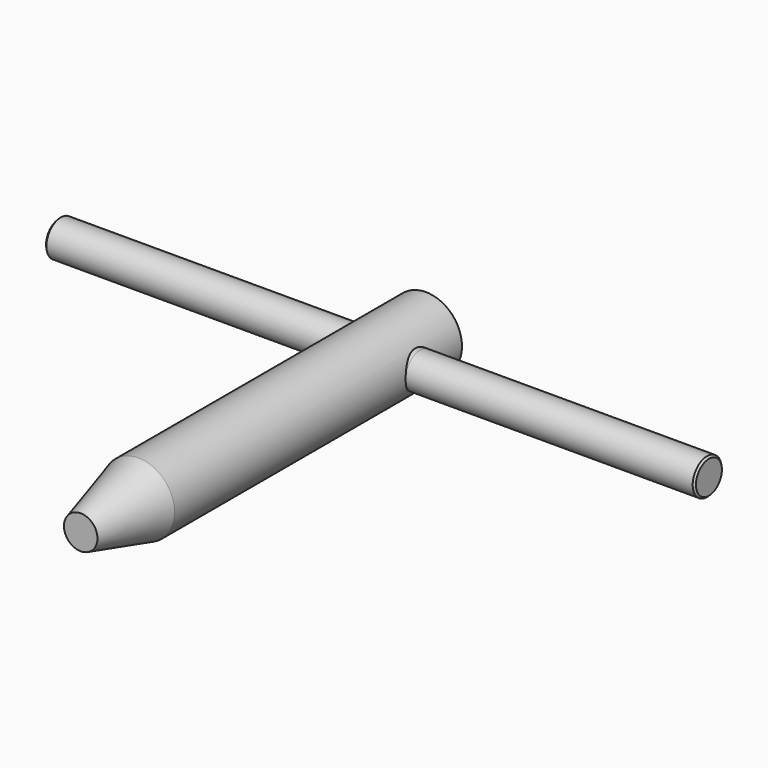
from build123d import *

# Parameters (mm, degrees)
F0_R          = 10
F1_DEPTH      = 100
F2_R          = 10
F3_DEPTH      = 20
F3_TAPER      = 15
F5_R          = 5
F6_DEPTH      = 80
F6_DEPTH_BACK = 3
F8_R          = 5
F9_DEPTH      = 80
F9_DEPTH_BACK = 3
F10_SIZE      = 0.5


with BuildPart() as f1:
    # F0 (on Front) → F1 (new body)
    with BuildSketch(Plane.XZ):
        Circle(F0_R)
    extrude(amount=F1_DEPTH)

    # F2 (on face) → F3 (join)
    with BuildSketch(Plane.XZ.offset(100)):
        Circle(F2_R)
    extrude(amount=F3_DEPTH, taper=F3_TAPER)

    # F5 (on offset) → F6 (join, two sides)
    with BuildSketch(Plane.YZ.offset(10)) as f6_sk:
        with Locations((-15, 0)):
            Circle(F5_R)
    extrude(amount=F6_DEPTH)
    extrude(f6_sk.sketch, amount=-F6_DEPTH_BACK)

    # F8 (on offset) → F9 (join, two sides)
    with BuildSketch(Plane.YZ.offset(-10)) as f9_sk:
        with Locations((-15, 0)):
            Circle(F8_R)
    extrude(amount=-F9_DEPTH)
    extrude(f9_sk.sketch, amount=F9_DEPTH_BACK)

    # F10
    f10_edges = [f1.edges().sort_by_distance(p)[0] for p in [
        (-90, -20, 0),
        (-10, 0, 0),
        (90, -20, 0),
    ]]
    chamfer(f10_edges, length=F10_SIZE)


solid = f1.part
